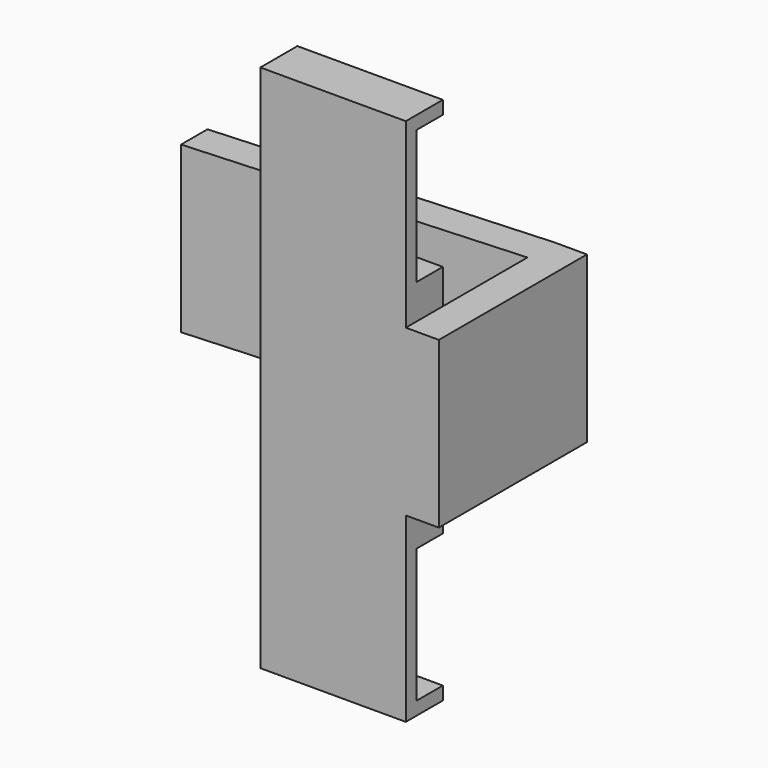
from build123d import *

# Parameters (mm, degrees)
PAD_DEPTH    = 10
SKETCH001_W  = 10
SKETCH001_H  = 50
PAD001_DEPTH = 52
PAD002_DEPTH = 4
PAD003_DEPTH = 50


with BuildPart() as part:
    # Sketch → Pad (new body)
    with BuildSketch(Plane.XZ):
        Polygon((44, 76), (4, 76), (4, 35.5), (44, 35.5), (44, -35.5), (4, -35.5), (4, -76), (44, -76), (44, -80), (0, -80), (0, 80), (44, 80), align=None)
    extrude(amount=PAD_DEPTH)

    # Sketch001 (on Face14 of Pad) → Pad001 (join)
    with BuildSketch(Plane.XZ.offset(10)):
        with Locations((49, 0)):
            Rectangle(SKETCH001_W, SKETCH001_H)
    extrude(amount=-PAD001_DEPTH)

    # Sketch002 (on Face20 of Pad001) → Pad002 (join)
    with BuildSketch(Plane.XZ.offset(10)):
        Polygon((44, 80), (44, 25), (54, 25), (54, -25), (44, -25), (44, -80), (0, -80), (0, 80), align=None)
    extrude(amount=PAD002_DEPTH)

    # Sketch003 (on Face20 of Pad002) → Pad003 (join)
    with BuildSketch(Plane.XY.offset(25)):
        Polygon((44, 42), (-56, 36), (-56, 26), (44, 32), align=None)
    extrude(amount=-PAD003_DEPTH)


solid = part.part
